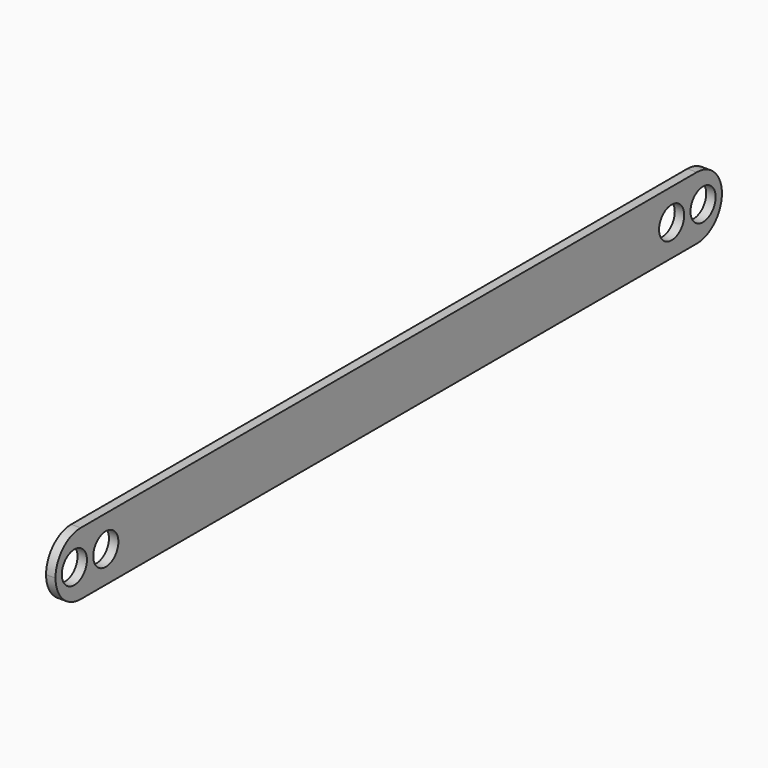
from build123d import *

# Parameters (mm, degrees)
F0_R     = 10
F1_DEPTH = 6


with BuildPart() as f1:
    # F0 (on Right) → F1 (new body)
    with BuildSketch(Plane.YZ):
        with BuildLine():
            Line((337.336157, -1.05279), (-152.663843, -1.05279))
            ThreePointArc((-152.663843, -1.05279), (-166.805979, -6.910655), (-172.663843, -21.05279))
            ThreePointArc((-172.663843, -21.05279), (-166.805979, -35.194926), (-152.663843, -41.05279))
            Line((-152.663843, -41.05279), (337.336157, -41.05279))
            ThreePointArc((337.336157, -41.05279), (351.478292, -35.194926), (357.336157, -21.05279))
            ThreePointArc((357.336157, -21.05279), (351.478292, -6.910655), (337.336157, -1.05279))
        make_face()
        with Locations((-157.663843, -21.05279)):
            Circle(F0_R, mode=Mode.SUBTRACT)
        with Locations((-132.663843, -21.05279)):
            Circle(F0_R, mode=Mode.SUBTRACT)
        with Locations((317.336157, -21.05279)):
            Circle(F0_R, mode=Mode.SUBTRACT)
        with Locations((342.336157, -21.05279)):
            Circle(F0_R, mode=Mode.SUBTRACT)
    extrude(amount=F1_DEPTH)


solid = f1.part
